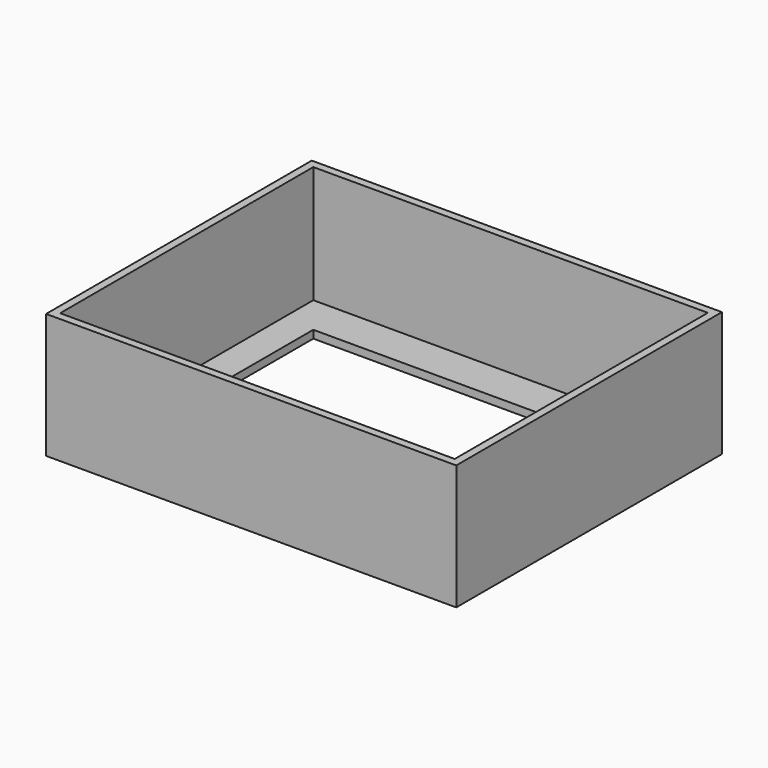
from build123d import *

# Parameters (mm, degrees)
F0_W     = 105
F0_H     = 85
F1_DEPTH = 30
F2_W     = 84.925418
F2_H     = 63
F3_DEPTH = 2


with BuildPart() as f1:
    # F0 (on Top) → F1 (new body)
    with BuildSketch(Plane.XY):
        with Locations((3.972506, -0.03361)):
            Rectangle(F0_W, F0_H)
        Polygon((-46.527494, -40.53361), (-46.527494, 11.643938), (-46.527494, 40.46639), (54.472506, 40.46639), (54.472506, -40.53361), align=None, mode=Mode.SUBTRACT)
    extrude(amount=F1_DEPTH)

    # F2 (on face) → F3 (join)
    with BuildSketch(Plane(origin=(0, 0, 0), x_dir=(1, 0, 0), z_dir=(0, 0, -1))):
        Polygon((-38.527494, 42.53361), (-48.527494, 42.53361), (-48.527494, -42.46639), (56.472506, -42.46639), (56.472506, 42.53361), align=None)
        with Locations((3.935215, 1.03361)):
            Rectangle(F2_W, F2_H, mode=Mode.SUBTRACT)
    extrude(amount=F3_DEPTH)


solid = f1.part
